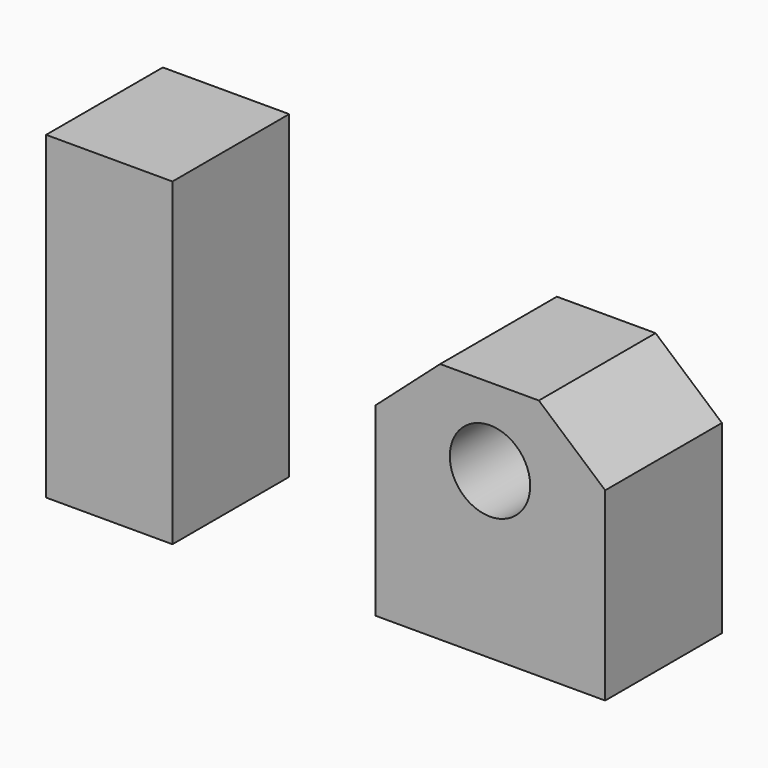
from build123d import *

# Parameters (mm, degrees)
F0_W     = 21.9964
F0_H     = 11.283317
F0_H_2   = 44.307585
F0_R     = 6.9977
F1_DEPTH = 25.4


with BuildPart() as f1:
    # F0 (on Front) → F1 (new body)
    with BuildSketch(Plane.XZ):
        with Locations((-40.944714, 30.611225)):
            Rectangle(F0_W, F0_H)
        with Locations((-40.944714, 2.815774)):
            Rectangle(F0_W, F0_H_2)
        Polygon((5.3698, 13.424497), (5.3698, -18.794296), (45.3748, -18.794296), (45.3748, 13.424497), (33.829734, 23.432097), (16.646376, 23.432097), align=None)
        with Locations((25.327743, 9.875216)):
            Circle(F0_R, mode=Mode.SUBTRACT)
    extrude(amount=F1_DEPTH)


solid = f1.part
